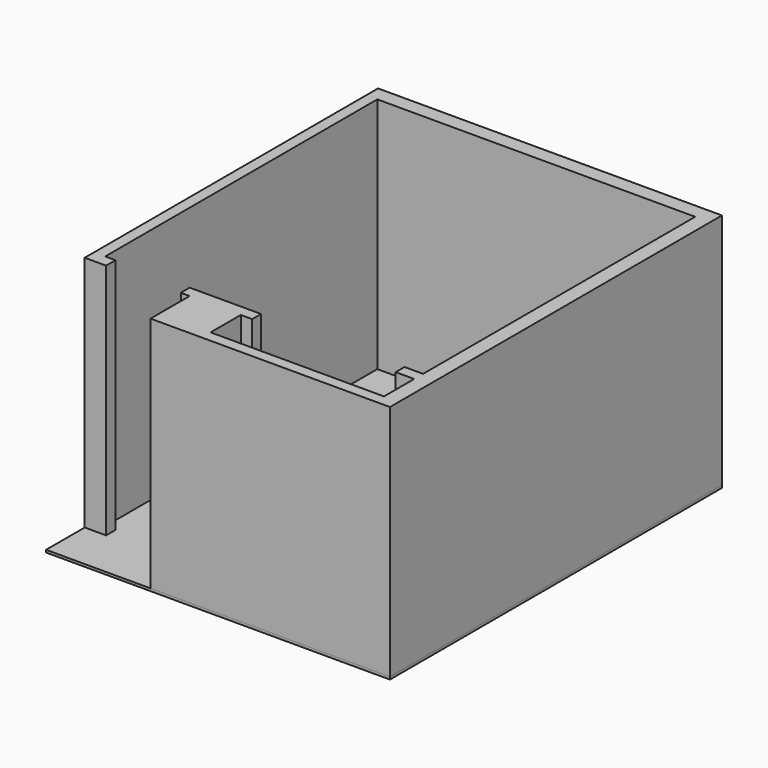
from build123d import *

# Parameters (mm, degrees)
F0_W     = 190.5
F0_H     = 114.3
F1_DEPTH = 2438.4
F2_W     = 3530.6
F2_H     = 4260.85
F3_DEPTH = 25.4


with BuildPart() as f1:
    # F0 (on Top) → F1 (new body)
    with BuildSketch(Plane.XY):
        Polygon((-3263.9, 0), (0, 0), (0, -3492.5), (0, -3606.8), (0, -3994.15), (-1780.519962, -3994.15), (-1780.519962, -3606.8), (-2305.91774, -3606.8), (-2305.91774, -4108.45), (152.4, -4108.45), (152.4, 152.4), (-3378.2, 152.4), (-3378.2, -3612.851381), (-3263.9, -3612.851381), (-3158.5536, -3612.851381), (-3158.5536, -3492.5), (-3263.9, -3492.5), align=None)
        with Locations((-95.25, -3549.65)):
            Rectangle(F0_W, F0_H)
        Polygon((-2305.91774, -3606.8), (-1780.519962, -3606.8), (-1663.7, -3606.8), (-1663.7, -3492.5), (-2396.5536, -3492.5), (-2396.5536, -3606.8), align=None)
    extrude(amount=F1_DEPTH)


with BuildPart() as f3:
    # F2 (on face) → F3 (new body)
    with BuildSketch(Plane(origin=(0, 0, 0), x_dir=(1, 0, 0), z_dir=(0, 0, -1))):
        with Locations((-1612.9, 1978.025)):
            Rectangle(F2_W, F2_H)
    extrude(amount=F3_DEPTH)


solid = Compound([f1.part, f3.part])
